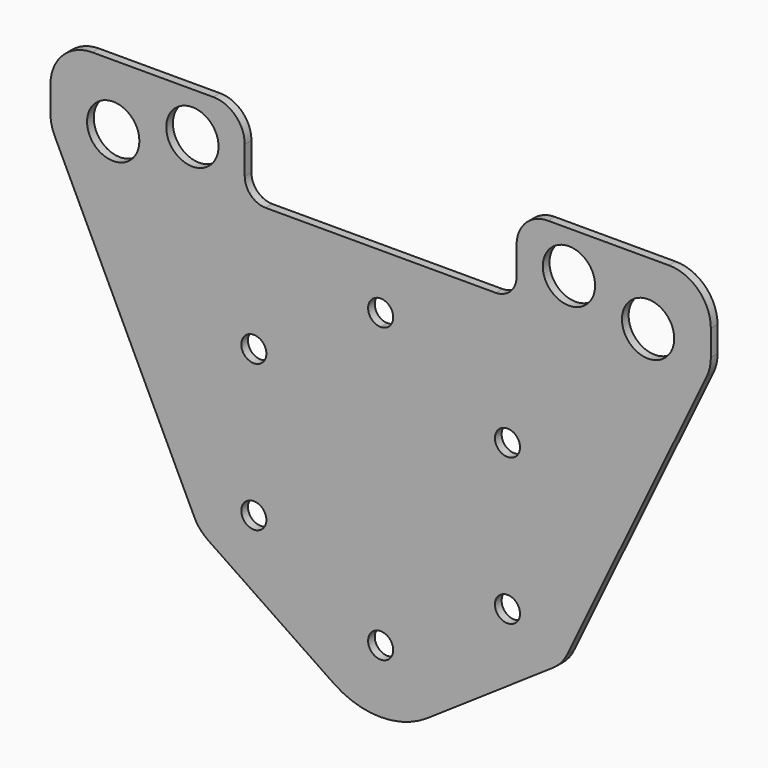
from build123d import *

# Parameters (mm, degrees)
F1_R     = 3
F1_R_2   = 6.25
F2_DEPTH = 2


with BuildPart() as f2:
    # F1 (on Front) → F2 (new body)
    with BuildSketch(Plane.XZ):
        with BuildLine():
            Line((-41.189004, -26.319483), (-11.225195, -46.63929))
            ThreePointArc((-11.225195, -46.63929), (0, -50.086496), (11.225195, -46.63929))
            Line((11.225195, -46.63929), (41.189004, -26.319483))
            ThreePointArc((41.189004, -26.319483), (43.148737, -24.574534), (44.587085, -22.379868))
            Line((44.587085, -22.379868), (77.928371, 46.894439))
            ThreePointArc((77.928371, 46.894439), (78.667226, 49.007124), (78.917693, 51.231222))
            Line((78.917693, 51.231222), (78.917693, 57.371839))
            ThreePointArc((78.917693, 57.371839), (75.988761, 64.442907), (68.917693, 67.371839))
            Line((68.917693, 67.371839), (39.985476, 67.371839))
            ThreePointArc((39.985476, 67.371839), (34.682175, 65.17514), (32.485476, 59.871839))
            Line((32.485476, 59.871839), (32.485476, 53.130572))
            ThreePointArc((32.485476, 53.130572), (31.02101, 49.595038), (27.485476, 48.130572))
            Line((27.485476, 48.130572), (0, 48.130572))
            Line((0, 48.130572), (-27.485476, 48.130572))
            ThreePointArc((-27.485476, 48.130572), (-31.02101, 49.595038), (-32.485476, 53.130572))
            Line((-32.485476, 53.130572), (-32.485476, 59.871839))
            ThreePointArc((-32.485476, 59.871839), (-34.682175, 65.17514), (-39.985476, 67.371839))
            Line((-39.985476, 67.371839), (-68.917693, 67.371839))
            ThreePointArc((-68.917693, 67.371839), (-75.988761, 64.442907), (-78.917693, 57.371839))
            Line((-78.917693, 57.371839), (-78.917693, 51.231222))
            ThreePointArc((-78.917693, 51.231222), (-78.667226, 49.007124), (-77.928371, 46.894439))
            Line((-77.928371, 46.894439), (-44.587085, -22.379868))
            ThreePointArc((-44.587085, -22.379868), (-43.148737, -24.574534), (-41.189004, -26.319483))
        make_face()
        with Locations((-30.310889, -17.5)):
            Circle(F1_R, mode=Mode.SUBTRACT)
        with Locations((0, -35)):
            Circle(F1_R, mode=Mode.SUBTRACT)
        with Locations((30.310889, -17.5)):
            Circle(F1_R, mode=Mode.SUBTRACT)
        with Locations((-30.310889, 17.5)):
            Circle(F1_R, mode=Mode.SUBTRACT)
        with Locations((-63.917693, 52.371839)):
            Circle(F1_R_2, mode=Mode.SUBTRACT)
        with Locations((-45, 57.371839)):
            Circle(F1_R_2, mode=Mode.SUBTRACT)
        with Locations((30.310889, 17.5)):
            Circle(F1_R, mode=Mode.SUBTRACT)
        with BuildLine():
            ThreePointArc((0, 32), (-2.12132, 37.12132), (3, 35))
            ThreePointArc((3, 35), (2.12132, 32.87868), (0, 32))
        make_face(mode=Mode.SUBTRACT)
        with Locations((63.917693, 52.371839)):
            Circle(F1_R_2, mode=Mode.SUBTRACT)
        with Locations((45, 57.371839)):
            Circle(F1_R_2, mode=Mode.SUBTRACT)
    extrude(amount=-F2_DEPTH)


solid = f2.part
